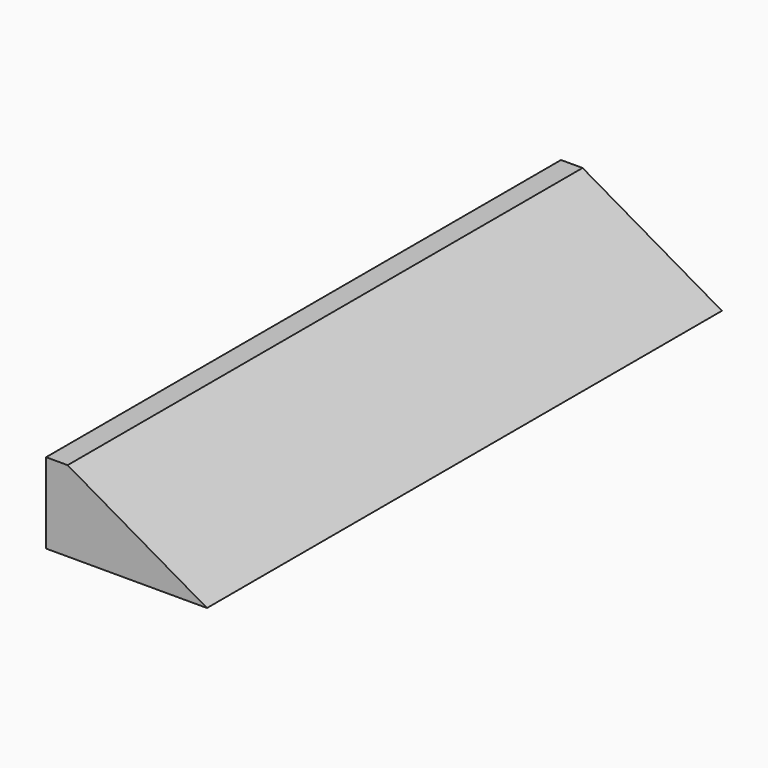
from build123d import *

# Parameters (mm, degrees)
F0_W     = 152.4
F0_H     = 38.1
F1_DEPTH = 152.4
F3_DEPTH = 304.801
F4_W     = 76.2
F4_H     = 38.1
F5_DEPTH = 304.801


with BuildPart() as f1:
    # F0 (on Front) → F1 (new body, symmetric)
    with BuildSketch(Plane.XZ):
        Rectangle(F0_W, F0_H)
    extrude(amount=F1_DEPTH, both=True)

    # F2 (on face) → F3 (cut, through all)
    with BuildSketch(Plane.XZ.offset(152.4)):
        Polygon((76.2, 19.05), (10.2088642316, 19.05), (76.2, -19.05), align=None)
    extrude(amount=-F3_DEPTH, mode=Mode.SUBTRACT)

    # F4 (on face) → F5 (cut, through all)
    with BuildSketch(Plane.XZ.offset(152.4)):
        with Locations((-38.1, 0)):
            Rectangle(F4_W, F4_H)
    extrude(amount=-F5_DEPTH, mode=Mode.SUBTRACT)


solid = f1.part
